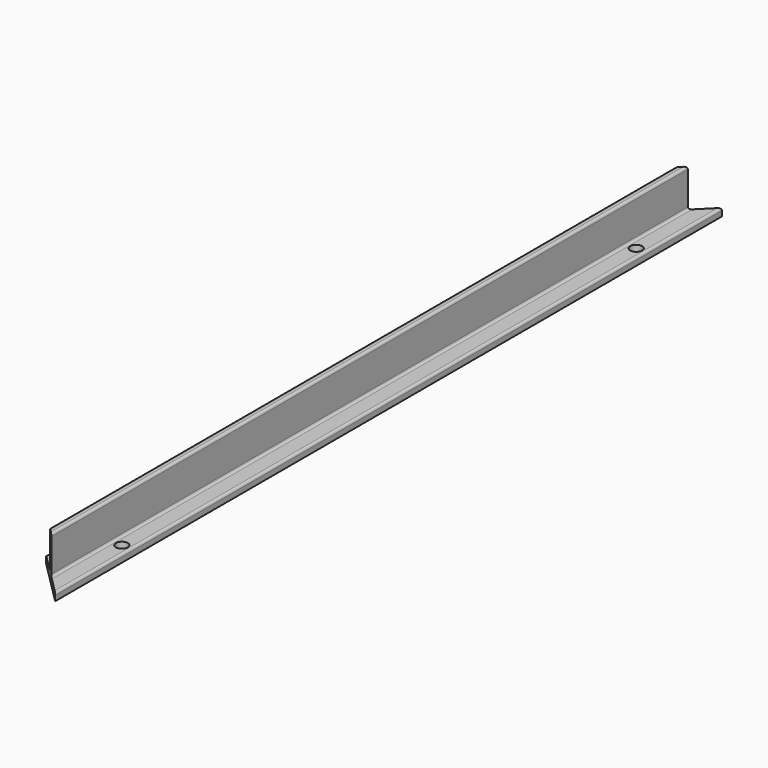
from build123d import *

# Parameters (mm, degrees)
F1_DEPTH = 350
F3_DEPTH = 20
F5_D     = 5


with BuildPart() as f1:
    # F0 (on Front) → F1 (new body)
    with BuildSketch(Plane.XZ):
        with BuildLine():
            Line((-9.55, 2.17), (-9.55, 0))
            Line((-9.55, 0), (9.55, 0))
            Line((9.55, 0), (9.55, 2.17))
            ThreePointArc((9.55, 2.17), (9.257107, 2.877107), (8.55, 3.17))
            Line((8.55, 3.17), (2.585, 3.17))
            ThreePointArc((2.585, 3.17), (1.877893, 3.462893), (1.585, 4.17))
            Line((1.585, 4.17), (1.585, 18.1))
            ThreePointArc((1.585, 18.1), (1.292107, 18.807107), (0.585, 19.1))
            Line((0.585, 19.1), (-0.585, 19.1))
            ThreePointArc((-0.585, 19.1), (-1.292107, 18.807107), (-1.585, 18.1))
            Line((-1.585, 18.1), (-1.585, 4.17))
            ThreePointArc((-1.585, 4.17), (-1.877893, 3.462893), (-2.585, 3.17))
            Line((-2.585, 3.17), (-8.55, 3.17))
            ThreePointArc((-8.55, 3.17), (-9.257107, 2.877107), (-9.55, 2.17))
        make_face()
    extrude(amount=F1_DEPTH)

    # F2 (on face) → F3 (cut)
    with BuildSketch(Plane(origin=(0, 0, 0), x_dir=(1, 0, 0), z_dir=(0, 0, -1))):
        Polygon((-9.55, 330.9), (9.55, 350), (-9.55, 350), align=None)
        Polygon((-9.55, 0), (9.55, 0), (-9.55, 19.1), align=None)
    extrude(amount=-F3_DEPTH, mode=Mode.SUBTRACT)

    # F5 (through all)
    with Locations(Plane(origin=(0, 0, 0), x_dir=(1, 0, 0), z_dir=(0, 0, -1))):
        with Locations((5.55, 310), (5.55, 40)):
            Hole(F5_D / 2)


solid = f1.part
